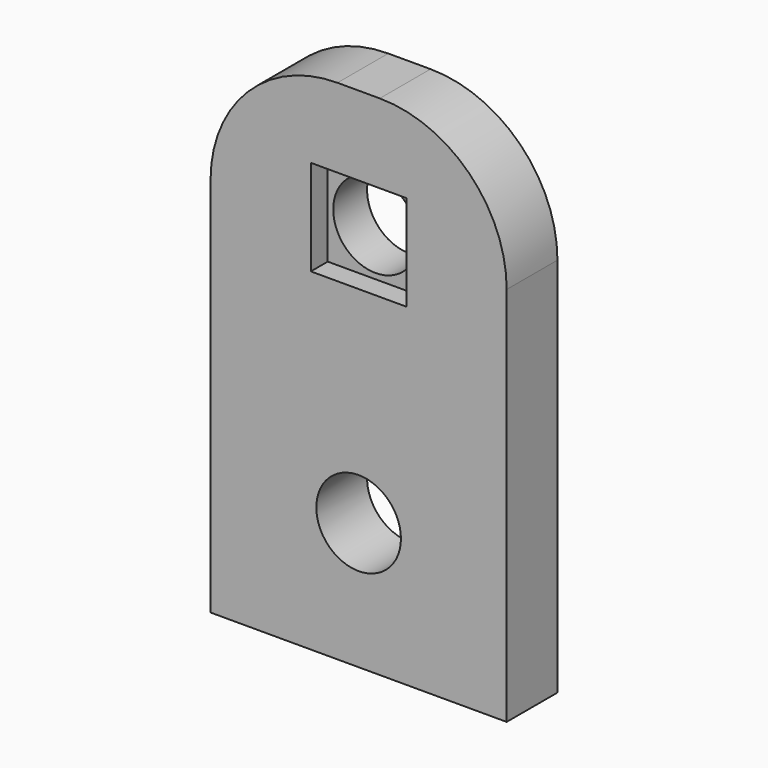
from build123d import *

# Parameters (mm, degrees)
F1_DEPTH = 19.05
F2_R     = 12.7
F3_DEPTH = 19.051
F4_W     = 28.702
F4_H     = 28.702
F4_R     = 12.7
F5_DEPTH = 6.35


with BuildPart() as f1:
    # F0 (on Front) → F1 (new body)
    with BuildSketch(Plane.XZ):
        with BuildLine():
            Line((-44.45, 38.1), (-44.45, -76.2))
            Line((-44.45, -76.2), (44.45, -76.2))
            Line((44.45, -76.2), (44.45, 38.1))
            ThreePointArc((44.45, 38.1), (33.290768, 65.040768), (6.35, 76.2))
            Line((6.35, 76.2), (-6.35, 76.2))
            ThreePointArc((-6.35, 76.2), (-33.290768, 65.040768), (-44.45, 38.1))
        make_face()
    extrude(amount=F1_DEPTH)

    # F2 (on face) → F3 (cut, through all)
    with BuildSketch(Plane.XZ.offset(19.05)):
        with Locations((0, -38.1)):
            Circle(F2_R)
        with Locations((0, 38.1)):
            Circle(F2_R)
    extrude(amount=-F3_DEPTH, mode=Mode.SUBTRACT)

    # F4 (on face) → F5 (cut)
    with BuildSketch(Plane.XZ.offset(19.05)):
        with Locations((0, 38.1)):
            Rectangle(F4_W, F4_H)
        with Locations((0, 38.1)):
            Circle(F4_R, mode=Mode.SUBTRACT)
    extrude(amount=-F5_DEPTH, mode=Mode.SUBTRACT)


solid = f1.part
